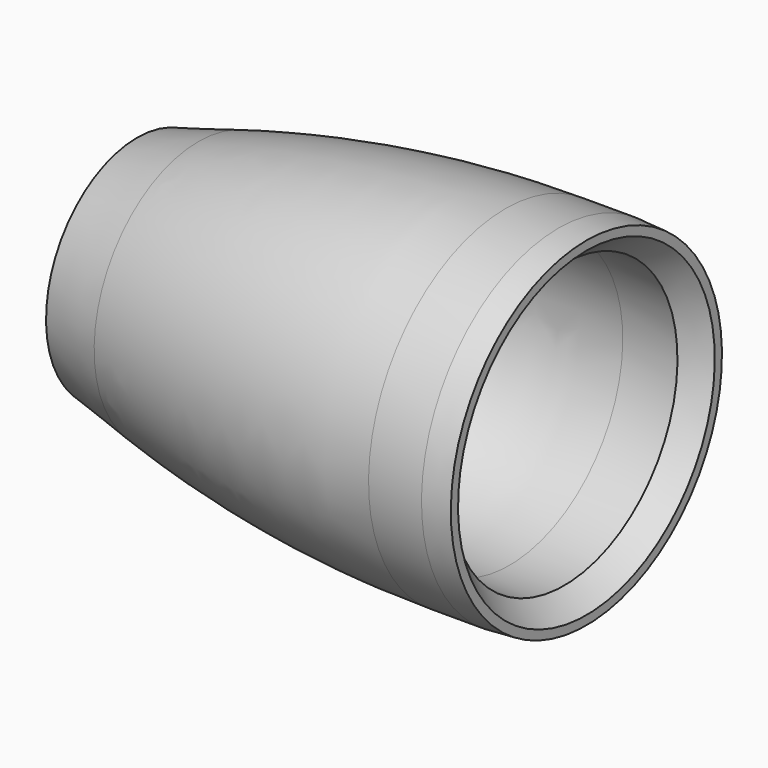
from build123d import *

# Parameters (mm, degrees)
F2_R     = 23.85
F3_DEPTH = 9.3


with BuildPart() as f1:
    # F0 (on Front) → F1 (revolve)
    with BuildSketch(Plane.XZ):
        with BuildLine():
            Line((-18, 33.124), (-5.2151137212, 33.124))
            Line((-5.2151137212, 33.124), (0, 37.5))
            Line((0, 37.5), (0, 39.6))
            Line((0, 39.6), (-6.5399421904, 40))
            Line((-6.5399421904, 40), (-18.9116653046, 40))
            ThreePointArc((-18.9116653046, 40), (-55.0987630492, 37.6086828346), (-90.6565165902, 30.476319686))
            Line((-90.6565165902, 30.476319686), (-105, 26.6))
            Line((-105, 26.6), (-105, 24.6))
            Line((-105, 24.6), (-101.1401416966, 20))
            Line((-101.1401416966, 20), (-100.2320508076, 20))
            Line((-100.2320508076, 20), (-98.5, 23))
            Line((-98.5, 23), (-96.7679491924, 20))
            ThreePointArc((-96.7679491924, 20), (-57.9268994413, 29.8205398211), (-18, 33.124))
        make_face()
    revolve(axis=Axis((-69.0081492066, 0, 0), (-1, 0, 0)))

    # F2 (on face) → F3 (cut)
    with BuildSketch(Plane(origin=(-105, 0, 0), x_dir=(0, -1, 0), z_dir=(-1, 0, 0))):
        Circle(F2_R)
    extrude(amount=-F3_DEPTH, mode=Mode.SUBTRACT)


solid = f1.part
